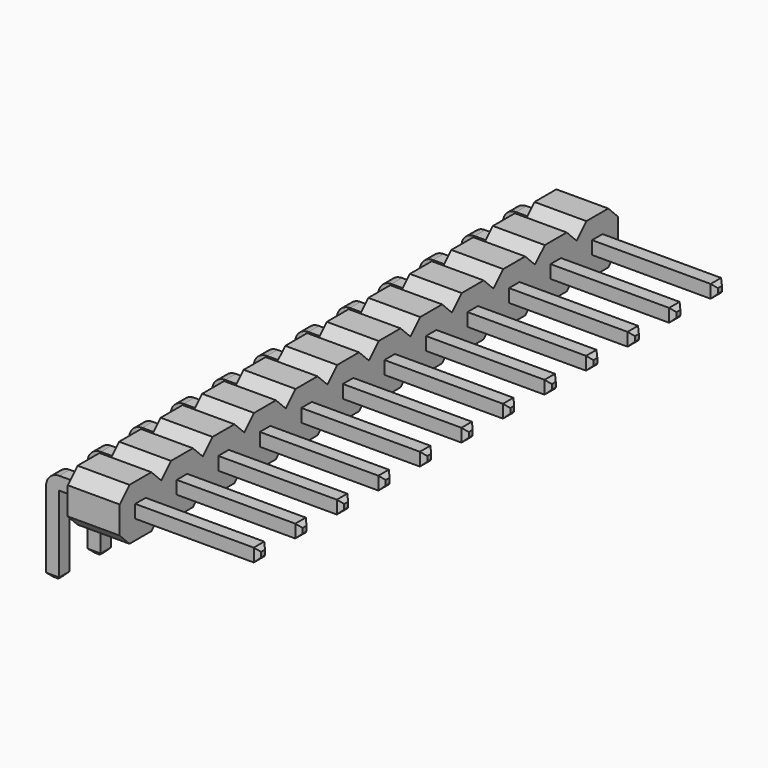
from build123d import *

# Parameters (mm, degrees)
SKETCH_W            = 2.54
SKETCH_H            = 2.54
PAD_DEPTH           = 2.54
SKETCH001_W         = 0.64
SKETCH001_H         = 0.64
POCKET_DEPTH        = 2.541
CHAMFER_SIZE        = 0.6
LINEARPATTERN_COUNT = 12
LINEARPATTERN_PITCH = 2.54
SKETCH002_W         = 0.64
SKETCH002_H         = 0.64
PAD001_DEPTH        = 10.04
PAD001_FACE5_W      = 0.64
PAD001_FACE5_H      = 0.64
PAD002_DEPTH        = 0.32
SKETCH003_W         = 0.64
SKETCH003_H         = 0.64
PAD003_DEPTH        = 3.94
CHAMFER001_SIZE     = 0.2
CHAMFER002_SIZE     = 0.2
FILLET_R            = 0.64
SKETCH004_W         = 0.64
SKETCH004_H         = 0.64
PAD004_DEPTH        = 10.04
PAD004_FACE5_W      = 0.64
PAD004_FACE5_H      = 0.64
PAD005_DEPTH        = 0.32
SKETCH005_W         = 0.64
SKETCH005_H         = 0.64
PAD006_DEPTH        = 3.94
CHAMFER003_SIZE     = 0.2
CHAMFER004_SIZE     = 0.2
FILLET001_R         = 0.64
SKETCH006_W         = 0.64
SKETCH006_H         = 0.64
PAD007_DEPTH        = 10.04
PAD007_FACE5_W      = 0.64
PAD007_FACE5_H      = 0.64
PAD008_DEPTH        = 0.32
SKETCH007_W         = 0.64
SKETCH007_H         = 0.64
PAD009_DEPTH        = 3.94
CHAMFER005_SIZE     = 0.2
CHAMFER006_SIZE     = 0.2
FILLET002_R         = 0.64
SKETCH008_W         = 0.64
SKETCH008_H         = 0.64
PAD010_DEPTH        = 10.04
PAD010_FACE5_W      = 0.64
PAD010_FACE5_H      = 0.64
PAD011_DEPTH        = 0.32
SKETCH009_W         = 0.64
SKETCH009_H         = 0.64
PAD012_DEPTH        = 3.94
CHAMFER007_SIZE     = 0.2
CHAMFER008_SIZE     = 0.2
FILLET003_R         = 0.64
SKETCH010_W         = 0.64
SKETCH010_H         = 0.64
PAD013_DEPTH        = 10.04
PAD013_FACE5_W      = 0.64
PAD013_FACE5_H      = 0.64
PAD014_DEPTH        = 0.32
SKETCH011_W         = 0.64
SKETCH011_H         = 0.64
PAD015_DEPTH        = 3.94
CHAMFER009_SIZE     = 0.2
CHAMFER010_SIZE     = 0.2
FILLET004_R         = 0.64
SKETCH012_W         = 0.64
SKETCH012_H         = 0.64
PAD016_DEPTH        = 10.04
PAD016_FACE5_W      = 0.64
PAD016_FACE5_H      = 0.64
PAD017_DEPTH        = 0.32
SKETCH013_W         = 0.64
SKETCH013_H         = 0.64
PAD018_DEPTH        = 3.94
CHAMFER011_SIZE     = 0.2
CHAMFER012_SIZE     = 0.2
FILLET005_R         = 0.64
SKETCH014_W         = 0.64
SKETCH014_H         = 0.64
PAD019_DEPTH        = 10.04
PAD019_FACE5_W      = 0.64
PAD019_FACE5_H      = 0.64
PAD020_DEPTH        = 0.32
SKETCH015_W         = 0.64
SKETCH015_H         = 0.64
PAD021_DEPTH        = 3.94
CHAMFER013_SIZE     = 0.2
CHAMFER014_SIZE     = 0.2
FILLET006_R         = 0.64
SKETCH016_W         = 0.64
SKETCH016_H         = 0.64
PAD022_DEPTH        = 10.04
PAD022_FACE5_W      = 0.64
PAD022_FACE5_H      = 0.64
PAD023_DEPTH        = 0.32
SKETCH017_W         = 0.64
SKETCH017_H         = 0.64
PAD024_DEPTH        = 3.94
CHAMFER015_SIZE     = 0.2
CHAMFER016_SIZE     = 0.2
FILLET007_R         = 0.64
SKETCH018_W         = 0.64
SKETCH018_H         = 0.64
PAD025_DEPTH        = 10.04
PAD025_FACE5_W      = 0.64
PAD025_FACE5_H      = 0.64
PAD026_DEPTH        = 0.32
SKETCH019_W         = 0.64
SKETCH019_H         = 0.64
PAD027_DEPTH        = 3.94
CHAMFER017_SIZE     = 0.2
CHAMFER018_SIZE     = 0.2
FILLET008_R         = 0.64
SKETCH022_W         = 0.64
SKETCH022_H         = 0.64
PAD031_DEPTH        = 10.04
PAD031_FACE5_W      = 0.64
PAD031_FACE5_H      = 0.64
PAD032_DEPTH        = 0.32
SKETCH023_W         = 0.64
SKETCH023_H         = 0.64
PAD033_DEPTH        = 3.94
CHAMFER021_SIZE     = 0.2
CHAMFER022_SIZE     = 0.2
FILLET010_R         = 0.64
SKETCH024_W         = 0.64
SKETCH024_H         = 0.64
PAD034_DEPTH        = 10.04
PAD034_FACE5_W      = 0.64
PAD034_FACE5_H      = 0.64
PAD035_DEPTH        = 0.32
SKETCH025_W         = 0.64
SKETCH025_H         = 0.64
PAD036_DEPTH        = 3.94
CHAMFER023_SIZE     = 0.2
CHAMFER024_SIZE     = 0.2
FILLET011_R         = 0.64
SKETCH020_W         = 0.64
SKETCH020_H         = 0.64
PAD028_DEPTH        = 10.04
PAD028_FACE5_W      = 0.64
PAD028_FACE5_H      = 0.64
PAD029_DEPTH        = 0.32
SKETCH021_W         = 0.64
SKETCH021_H         = 0.64
PAD030_DEPTH        = 3.94
CHAMFER019_SIZE     = 0.2
CHAMFER020_SIZE     = 0.2
FILLET009_R         = 0.64


with BuildPart() as body:
    # Sketch → Pad (new body)
    with BuildSketch(Plane.XY):
        with Locations((2.77, 0)):
            Rectangle(SKETCH_W, SKETCH_H)
    extrude(amount=PAD_DEPTH)

    # Sketch001 (on Face2 of Pad) → Pocket (cut, through all)
    with BuildSketch(Plane.YZ.offset(4.04)):
        with Locations((0, 1.26)):
            Rectangle(SKETCH001_W, SKETCH001_H)
    extrude(amount=-POCKET_DEPTH, mode=Mode.SUBTRACT)

    # Chamfer
    chamfer_edges = [body.edges().sort_by_distance(p)[0] for p in [
        (2.77, -1.27, 2.54),
        (2.77, 1.27, 2.54),
        (2.77, 1.27, 0),
        (2.77, -1.27, 0),
    ]]
    chamfer(chamfer_edges, length=CHAMFER_SIZE)

    # LinearPattern: Body ×12


with BuildPart() as body_1:
    add(body.part)
    with Locations(*[(0, -i * LINEARPATTERN_PITCH, 0) for i in range(1, LINEARPATTERN_COUNT)]):
        add(body.part)


with BuildPart() as pin001:
    # Sketch002 → Pad001 (new body)
    with BuildSketch(Plane.YZ):
        with Locations((0, 1.26)):
            Rectangle(SKETCH002_W, SKETCH002_H)
    extrude(amount=PAD001_DEPTH)

    # Pad001 Face5 → Pad002 (add)
    with BuildSketch(Plane(origin=(0, 0, 1.26), x_dir=(0, 1, 0), z_dir=(-1, 0, 0))):
        Rectangle(PAD001_FACE5_W, PAD001_FACE5_H)
    extrude(amount=PAD002_DEPTH)

    # Sketch003 (on Face5 of Pad002) → Pad003 (join)
    with BuildSketch(Plane.YX.offset(-0.94)):
        Rectangle(SKETCH003_W, SKETCH003_H)
    extrude(amount=PAD003_DEPTH)

    # Chamfer001
    chamfer001_edges = [pin001.edges().sort_by_distance(p)[0] for p in [
        (-0.32, 0, -3),
        (0, 0.32, -3),
        (0.32, 0, -3),
        (0, -0.32, -3),
    ]]
    chamfer(chamfer001_edges, length=CHAMFER001_SIZE)

    # Chamfer002
    chamfer002_edges = [pin001.edges().sort_by_distance(p)[0] for p in [
        (10.04, -0.32, 1.26),
        (10.04, 0, 0.94),
        (10.04, 0.32, 1.26),
        (10.04, 0, 1.58),
    ]]
    chamfer(chamfer002_edges, length=CHAMFER002_SIZE)

    # Fillet
    fillet_edges = [pin001.edges().sort_by_distance(p)[0] for p in [
        (-0.32, 0, 1.58),
    ]]
    fillet(fillet_edges, radius=FILLET_R)


with BuildPart() as pin002:
    # Sketch004 → Pad004 (new body)
    with BuildSketch(Plane.YZ):
        with Locations((0, 1.26)):
            Rectangle(SKETCH004_W, SKETCH004_H)
    extrude(amount=PAD004_DEPTH)

    # Pad004 Face5 → Pad005 (add)
    with BuildSketch(Plane(origin=(0, 0, 1.26), x_dir=(0, 1, 0), z_dir=(-1, 0, 0))):
        Rectangle(PAD004_FACE5_W, PAD004_FACE5_H)
    extrude(amount=PAD005_DEPTH)

    # Sketch005 (on Face5 of Pad005) → Pad006 (join)
    with BuildSketch(Plane.YX.offset(-0.94)):
        Rectangle(SKETCH005_W, SKETCH005_H)
    extrude(amount=PAD006_DEPTH)

    # Chamfer003
    chamfer003_edges = [pin002.edges().sort_by_distance(p)[0] for p in [
        (-0.32, 0, -3),
        (0, 0.32, -3),
        (0.32, 0, -3),
        (0, -0.32, -3),
    ]]
    chamfer(chamfer003_edges, length=CHAMFER003_SIZE)

    # Chamfer004
    chamfer004_edges = [pin002.edges().sort_by_distance(p)[0] for p in [
        (10.04, -0.32, 1.26),
        (10.04, 0, 0.94),
        (10.04, 0.32, 1.26),
        (10.04, 0, 1.58),
    ]]
    chamfer(chamfer004_edges, length=CHAMFER004_SIZE)

    # Fillet001
    fillet001_edges = [pin002.edges().sort_by_distance(p)[0] for p in [
        (-0.32, 0, 1.58),
    ]]
    fillet(fillet001_edges, radius=FILLET001_R)


with BuildPart() as pin002_1:
    # Body002 placement: moved
    add(pin002.part.moved(Location((0, -2.54, 0))))


with BuildPart() as pin003:
    # Sketch006 → Pad007 (new body)
    with BuildSketch(Plane.YZ):
        with Locations((0, 1.26)):
            Rectangle(SKETCH006_W, SKETCH006_H)
    extrude(amount=PAD007_DEPTH)

    # Pad007 Face5 → Pad008 (add)
    with BuildSketch(Plane(origin=(0, 0, 1.26), x_dir=(0, 1, 0), z_dir=(-1, 0, 0))):
        Rectangle(PAD007_FACE5_W, PAD007_FACE5_H)
    extrude(amount=PAD008_DEPTH)

    # Sketch007 (on Face5 of Pad008) → Pad009 (join)
    with BuildSketch(Plane.YX.offset(-0.94)):
        Rectangle(SKETCH007_W, SKETCH007_H)
    extrude(amount=PAD009_DEPTH)

    # Chamfer005
    chamfer005_edges = [pin003.edges().sort_by_distance(p)[0] for p in [
        (-0.32, 0, -3),
        (0, 0.32, -3),
        (0.32, 0, -3),
        (0, -0.32, -3),
    ]]
    chamfer(chamfer005_edges, length=CHAMFER005_SIZE)

    # Chamfer006
    chamfer006_edges = [pin003.edges().sort_by_distance(p)[0] for p in [
        (10.04, -0.32, 1.26),
        (10.04, 0, 0.94),
        (10.04, 0.32, 1.26),
        (10.04, 0, 1.58),
    ]]
    chamfer(chamfer006_edges, length=CHAMFER006_SIZE)

    # Fillet002
    fillet002_edges = [pin003.edges().sort_by_distance(p)[0] for p in [
        (-0.32, 0, 1.58),
    ]]
    fillet(fillet002_edges, radius=FILLET002_R)


with BuildPart() as pin003_1:
    # Body003 placement: moved
    add(pin003.part.moved(Location((0, -5.08, 0))))


with BuildPart() as pin004:
    # Sketch008 → Pad010 (new body)
    with BuildSketch(Plane.YZ):
        with Locations((0, 1.26)):
            Rectangle(SKETCH008_W, SKETCH008_H)
    extrude(amount=PAD010_DEPTH)

    # Pad010 Face5 → Pad011 (add)
    with BuildSketch(Plane(origin=(0, 0, 1.26), x_dir=(0, 1, 0), z_dir=(-1, 0, 0))):
        Rectangle(PAD010_FACE5_W, PAD010_FACE5_H)
    extrude(amount=PAD011_DEPTH)

    # Sketch009 (on Face5 of Pad011) → Pad012 (join)
    with BuildSketch(Plane.YX.offset(-0.94)):
        Rectangle(SKETCH009_W, SKETCH009_H)
    extrude(amount=PAD012_DEPTH)

    # Chamfer007
    chamfer007_edges = [pin004.edges().sort_by_distance(p)[0] for p in [
        (-0.32, 0, -3),
        (0, 0.32, -3),
        (0.32, 0, -3),
        (0, -0.32, -3),
    ]]
    chamfer(chamfer007_edges, length=CHAMFER007_SIZE)

    # Chamfer008
    chamfer008_edges = [pin004.edges().sort_by_distance(p)[0] for p in [
        (10.04, -0.32, 1.26),
        (10.04, 0, 0.94),
        (10.04, 0.32, 1.26),
        (10.04, 0, 1.58),
    ]]
    chamfer(chamfer008_edges, length=CHAMFER008_SIZE)

    # Fillet003
    fillet003_edges = [pin004.edges().sort_by_distance(p)[0] for p in [
        (-0.32, 0, 1.58),
    ]]
    fillet(fillet003_edges, radius=FILLET003_R)


with BuildPart() as pin004_1:
    # Body004 placement: moved
    add(pin004.part.moved(Location((0, -7.62, 0))))


with BuildPart() as pin005:
    # Sketch010 → Pad013 (new body)
    with BuildSketch(Plane.YZ):
        with Locations((0, 1.26)):
            Rectangle(SKETCH010_W, SKETCH010_H)
    extrude(amount=PAD013_DEPTH)

    # Pad013 Face5 → Pad014 (add)
    with BuildSketch(Plane(origin=(0, 0, 1.26), x_dir=(0, 1, 0), z_dir=(-1, 0, 0))):
        Rectangle(PAD013_FACE5_W, PAD013_FACE5_H)
    extrude(amount=PAD014_DEPTH)

    # Sketch011 (on Face5 of Pad014) → Pad015 (join)
    with BuildSketch(Plane.YX.offset(-0.94)):
        Rectangle(SKETCH011_W, SKETCH011_H)
    extrude(amount=PAD015_DEPTH)

    # Chamfer009
    chamfer009_edges = [pin005.edges().sort_by_distance(p)[0] for p in [
        (-0.32, 0, -3),
        (0, 0.32, -3),
        (0.32, 0, -3),
        (0, -0.32, -3),
    ]]
    chamfer(chamfer009_edges, length=CHAMFER009_SIZE)

    # Chamfer010
    chamfer010_edges = [pin005.edges().sort_by_distance(p)[0] for p in [
        (10.04, -0.32, 1.26),
        (10.04, 0, 0.94),
        (10.04, 0.32, 1.26),
        (10.04, 0, 1.58),
    ]]
    chamfer(chamfer010_edges, length=CHAMFER010_SIZE)

    # Fillet004
    fillet004_edges = [pin005.edges().sort_by_distance(p)[0] for p in [
        (-0.32, 0, 1.58),
    ]]
    fillet(fillet004_edges, radius=FILLET004_R)


with BuildPart() as pin005_1:
    # Body005 placement: moved
    add(pin005.part.moved(Location((0, -10.16, 0))))


with BuildPart() as pin006:
    # Sketch012 → Pad016 (new body)
    with BuildSketch(Plane.YZ):
        with Locations((0, 1.26)):
            Rectangle(SKETCH012_W, SKETCH012_H)
    extrude(amount=PAD016_DEPTH)

    # Pad016 Face5 → Pad017 (add)
    with BuildSketch(Plane(origin=(0, 0, 1.26), x_dir=(0, 1, 0), z_dir=(-1, 0, 0))):
        Rectangle(PAD016_FACE5_W, PAD016_FACE5_H)
    extrude(amount=PAD017_DEPTH)

    # Sketch013 (on Face5 of Pad017) → Pad018 (join)
    with BuildSketch(Plane.YX.offset(-0.94)):
        Rectangle(SKETCH013_W, SKETCH013_H)
    extrude(amount=PAD018_DEPTH)

    # Chamfer011
    chamfer011_edges = [pin006.edges().sort_by_distance(p)[0] for p in [
        (-0.32, 0, -3),
        (0, 0.32, -3),
        (0.32, 0, -3),
        (0, -0.32, -3),
    ]]
    chamfer(chamfer011_edges, length=CHAMFER011_SIZE)

    # Chamfer012
    chamfer012_edges = [pin006.edges().sort_by_distance(p)[0] for p in [
        (10.04, -0.32, 1.26),
        (10.04, 0, 0.94),
        (10.04, 0.32, 1.26),
        (10.04, 0, 1.58),
    ]]
    chamfer(chamfer012_edges, length=CHAMFER012_SIZE)

    # Fillet005
    fillet005_edges = [pin006.edges().sort_by_distance(p)[0] for p in [
        (-0.32, 0, 1.58),
    ]]
    fillet(fillet005_edges, radius=FILLET005_R)


with BuildPart() as pin006_1:
    # Body006 placement: moved
    add(pin006.part.moved(Location((0, -12.7, 0))))


with BuildPart() as pin007:
    # Sketch014 → Pad019 (new body)
    with BuildSketch(Plane.YZ):
        with Locations((0, 1.26)):
            Rectangle(SKETCH014_W, SKETCH014_H)
    extrude(amount=PAD019_DEPTH)

    # Pad019 Face5 → Pad020 (add)
    with BuildSketch(Plane(origin=(0, 0, 1.26), x_dir=(0, 1, 0), z_dir=(-1, 0, 0))):
        Rectangle(PAD019_FACE5_W, PAD019_FACE5_H)
    extrude(amount=PAD020_DEPTH)

    # Sketch015 (on Face5 of Pad020) → Pad021 (join)
    with BuildSketch(Plane.YX.offset(-0.94)):
        Rectangle(SKETCH015_W, SKETCH015_H)
    extrude(amount=PAD021_DEPTH)

    # Chamfer013
    chamfer013_edges = [pin007.edges().sort_by_distance(p)[0] for p in [
        (-0.32, 0, -3),
        (0, 0.32, -3),
        (0.32, 0, -3),
        (0, -0.32, -3),
    ]]
    chamfer(chamfer013_edges, length=CHAMFER013_SIZE)

    # Chamfer014
    chamfer014_edges = [pin007.edges().sort_by_distance(p)[0] for p in [
        (10.04, -0.32, 1.26),
        (10.04, 0, 0.94),
        (10.04, 0.32, 1.26),
        (10.04, 0, 1.58),
    ]]
    chamfer(chamfer014_edges, length=CHAMFER014_SIZE)

    # Fillet006
    fillet006_edges = [pin007.edges().sort_by_distance(p)[0] for p in [
        (-0.32, 0, 1.58),
    ]]
    fillet(fillet006_edges, radius=FILLET006_R)


with BuildPart() as pin007_1:
    # Body007 placement: moved
    add(pin007.part.moved(Location((0, -15.24, 0))))


with BuildPart() as pin008:
    # Sketch016 → Pad022 (new body)
    with BuildSketch(Plane.YZ):
        with Locations((0, 1.26)):
            Rectangle(SKETCH016_W, SKETCH016_H)
    extrude(amount=PAD022_DEPTH)

    # Pad022 Face5 → Pad023 (add)
    with BuildSketch(Plane(origin=(0, 0, 1.26), x_dir=(0, 1, 0), z_dir=(-1, 0, 0))):
        Rectangle(PAD022_FACE5_W, PAD022_FACE5_H)
    extrude(amount=PAD023_DEPTH)

    # Sketch017 (on Face5 of Pad023) → Pad024 (join)
    with BuildSketch(Plane.YX.offset(-0.94)):
        Rectangle(SKETCH017_W, SKETCH017_H)
    extrude(amount=PAD024_DEPTH)

    # Chamfer015
    chamfer015_edges = [pin008.edges().sort_by_distance(p)[0] for p in [
        (-0.32, 0, -3),
        (0, 0.32, -3),
        (0.32, 0, -3),
        (0, -0.32, -3),
    ]]
    chamfer(chamfer015_edges, length=CHAMFER015_SIZE)

    # Chamfer016
    chamfer016_edges = [pin008.edges().sort_by_distance(p)[0] for p in [
        (10.04, -0.32, 1.26),
        (10.04, 0, 0.94),
        (10.04, 0.32, 1.26),
        (10.04, 0, 1.58),
    ]]
    chamfer(chamfer016_edges, length=CHAMFER016_SIZE)

    # Fillet007
    fillet007_edges = [pin008.edges().sort_by_distance(p)[0] for p in [
        (-0.32, 0, 1.58),
    ]]
    fillet(fillet007_edges, radius=FILLET007_R)


with BuildPart() as pin008_1:
    # Body008 placement: moved
    add(pin008.part.moved(Location((0, -17.78, 0))))


with BuildPart() as pin009:
    # Sketch018 → Pad025 (new body)
    with BuildSketch(Plane.YZ):
        with Locations((0, 1.26)):
            Rectangle(SKETCH018_W, SKETCH018_H)
    extrude(amount=PAD025_DEPTH)

    # Pad025 Face5 → Pad026 (add)
    with BuildSketch(Plane(origin=(0, 0, 1.26), x_dir=(0, 1, 0), z_dir=(-1, 0, 0))):
        Rectangle(PAD025_FACE5_W, PAD025_FACE5_H)
    extrude(amount=PAD026_DEPTH)

    # Sketch019 (on Face5 of Pad026) → Pad027 (join)
    with BuildSketch(Plane.YX.offset(-0.94)):
        Rectangle(SKETCH019_W, SKETCH019_H)
    extrude(amount=PAD027_DEPTH)

    # Chamfer017
    chamfer017_edges = [pin009.edges().sort_by_distance(p)[0] for p in [
        (-0.32, 0, -3),
        (0, 0.32, -3),
        (0.32, 0, -3),
        (0, -0.32, -3),
    ]]
    chamfer(chamfer017_edges, length=CHAMFER017_SIZE)

    # Chamfer018
    chamfer018_edges = [pin009.edges().sort_by_distance(p)[0] for p in [
        (10.04, -0.32, 1.26),
        (10.04, 0, 0.94),
        (10.04, 0.32, 1.26),
        (10.04, 0, 1.58),
    ]]
    chamfer(chamfer018_edges, length=CHAMFER018_SIZE)

    # Fillet008
    fillet008_edges = [pin009.edges().sort_by_distance(p)[0] for p in [
        (-0.32, 0, 1.58),
    ]]
    fillet(fillet008_edges, radius=FILLET008_R)


with BuildPart() as pin009_1:
    # Body009 placement: moved
    add(pin009.part.moved(Location((0, -20.32, 0))))


with BuildPart() as pin011:
    # Sketch022 → Pad031 (new body)
    with BuildSketch(Plane.YZ):
        with Locations((0, 1.26)):
            Rectangle(SKETCH022_W, SKETCH022_H)
    extrude(amount=PAD031_DEPTH)

    # Pad031 Face5 → Pad032 (add)
    with BuildSketch(Plane(origin=(0, 0, 1.26), x_dir=(0, 1, 0), z_dir=(-1, 0, 0))):
        Rectangle(PAD031_FACE5_W, PAD031_FACE5_H)
    extrude(amount=PAD032_DEPTH)

    # Sketch023 (on Face5 of Pad032) → Pad033 (join)
    with BuildSketch(Plane.YX.offset(-0.94)):
        Rectangle(SKETCH023_W, SKETCH023_H)
    extrude(amount=PAD033_DEPTH)

    # Chamfer021
    chamfer021_edges = [pin011.edges().sort_by_distance(p)[0] for p in [
        (-0.32, 0, -3),
        (0, 0.32, -3),
        (0.32, 0, -3),
        (0, -0.32, -3),
    ]]
    chamfer(chamfer021_edges, length=CHAMFER021_SIZE)

    # Chamfer022
    chamfer022_edges = [pin011.edges().sort_by_distance(p)[0] for p in [
        (10.04, -0.32, 1.26),
        (10.04, 0, 0.94),
        (10.04, 0.32, 1.26),
        (10.04, 0, 1.58),
    ]]
    chamfer(chamfer022_edges, length=CHAMFER022_SIZE)

    # Fillet010
    fillet010_edges = [pin011.edges().sort_by_distance(p)[0] for p in [
        (-0.32, 0, 1.58),
    ]]
    fillet(fillet010_edges, radius=FILLET010_R)


with BuildPart() as pin011_1:
    # Body011 placement: moved
    add(pin011.part.moved(Location((0, -25.4, 0))))


with BuildPart() as pin012:
    # Sketch024 → Pad034 (new body)
    with BuildSketch(Plane.YZ):
        with Locations((0, 1.26)):
            Rectangle(SKETCH024_W, SKETCH024_H)
    extrude(amount=PAD034_DEPTH)

    # Pad034 Face5 → Pad035 (add)
    with BuildSketch(Plane(origin=(0, 0, 1.26), x_dir=(0, 1, 0), z_dir=(-1, 0, 0))):
        Rectangle(PAD034_FACE5_W, PAD034_FACE5_H)
    extrude(amount=PAD035_DEPTH)

    # Sketch025 (on Face5 of Pad035) → Pad036 (join)
    with BuildSketch(Plane.YX.offset(-0.94)):
        Rectangle(SKETCH025_W, SKETCH025_H)
    extrude(amount=PAD036_DEPTH)

    # Chamfer023
    chamfer023_edges = [pin012.edges().sort_by_distance(p)[0] for p in [
        (-0.32, 0, -3),
        (0, 0.32, -3),
        (0.32, 0, -3),
        (0, -0.32, -3),
    ]]
    chamfer(chamfer023_edges, length=CHAMFER023_SIZE)

    # Chamfer024
    chamfer024_edges = [pin012.edges().sort_by_distance(p)[0] for p in [
        (10.04, -0.32, 1.26),
        (10.04, 0, 0.94),
        (10.04, 0.32, 1.26),
        (10.04, 0, 1.58),
    ]]
    chamfer(chamfer024_edges, length=CHAMFER024_SIZE)

    # Fillet011
    fillet011_edges = [pin012.edges().sort_by_distance(p)[0] for p in [
        (-0.32, 0, 1.58),
    ]]
    fillet(fillet011_edges, radius=FILLET011_R)


with BuildPart() as pin012_1:
    # Body012 placement: moved
    add(pin012.part.moved(Location((0, -27.94, 0))))


with BuildPart() as pin010:
    # Sketch020 → Pad028 (new body)
    with BuildSketch(Plane.YZ):
        with Locations((0, 1.26)):
            Rectangle(SKETCH020_W, SKETCH020_H)
    extrude(amount=PAD028_DEPTH)

    # Pad028 Face5 → Pad029 (add)
    with BuildSketch(Plane(origin=(0, 0, 1.26), x_dir=(0, 1, 0), z_dir=(-1, 0, 0))):
        Rectangle(PAD028_FACE5_W, PAD028_FACE5_H)
    extrude(amount=PAD029_DEPTH)

    # Sketch021 (on Face5 of Pad029) → Pad030 (join)
    with BuildSketch(Plane.YX.offset(-0.94)):
        Rectangle(SKETCH021_W, SKETCH021_H)
    extrude(amount=PAD030_DEPTH)

    # Chamfer019
    chamfer019_edges = [pin010.edges().sort_by_distance(p)[0] for p in [
        (-0.32, 0, -3),
        (0, 0.32, -3),
        (0.32, 0, -3),
        (0, -0.32, -3),
    ]]
    chamfer(chamfer019_edges, length=CHAMFER019_SIZE)

    # Chamfer020
    chamfer020_edges = [pin010.edges().sort_by_distance(p)[0] for p in [
        (10.04, -0.32, 1.26),
        (10.04, 0, 0.94),
        (10.04, 0.32, 1.26),
        (10.04, 0, 1.58),
    ]]
    chamfer(chamfer020_edges, length=CHAMFER020_SIZE)

    # Fillet009
    fillet009_edges = [pin010.edges().sort_by_distance(p)[0] for p in [
        (-0.32, 0, 1.58),
    ]]
    fillet(fillet009_edges, radius=FILLET009_R)


with BuildPart() as pin010_1:
    # Body010 placement: moved
    add(pin010.part.moved(Location((0, -22.86, 0))))


solid = Compound([body_1.part, pin001.part, pin002_1.part, pin003_1.part, pin004_1.part, pin005_1.part, pin006_1.part, pin007_1.part, pin008_1.part, pin009_1.part, pin011_1.part, pin012_1.part, pin010_1.part])
